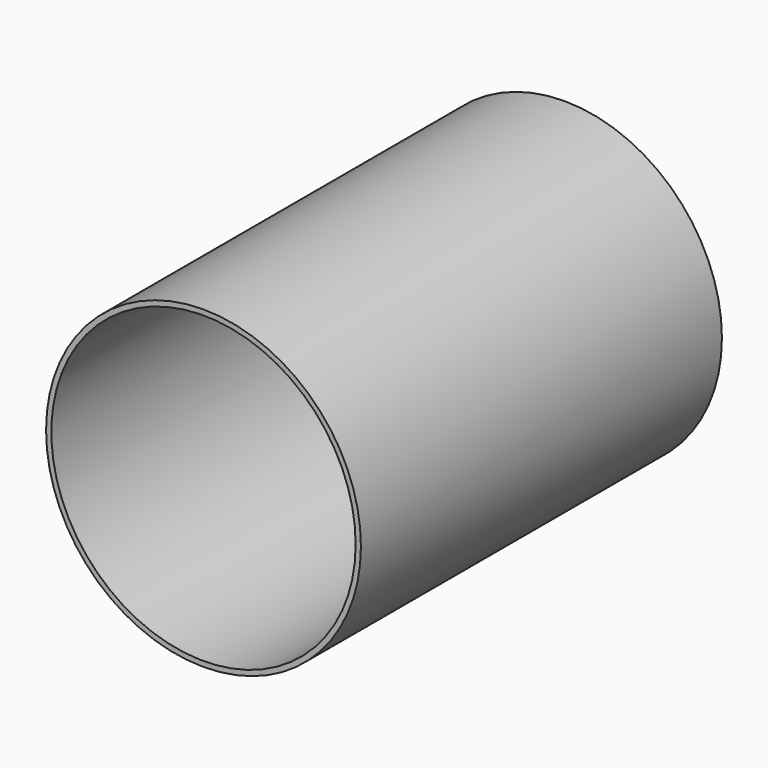
from build123d import *

# Parameters (mm, degrees)
F0_R        = 75
F0_R_2      = 72.5
F1_DEPTH    = 140
F1_FACE_R   = 75
F1_FACE_R_2 = 72.5
F2_DEPTH    = 75


with BuildPart() as f1:
    # F0 (on Front) → F1 (new body)
    with BuildSketch(Plane.XZ):
        Circle(F0_R)
        Circle(F0_R_2, mode=Mode.SUBTRACT)
    extrude(amount=F1_DEPTH)

    # F1_face (on face) → F2 (join)
    with BuildSketch(Plane(origin=(0, 0, 0), x_dir=(1, 0, 0), z_dir=(0, 1, 0))):
        Circle(F1_FACE_R)
        Circle(F1_FACE_R_2, mode=Mode.SUBTRACT)
    extrude(amount=F2_DEPTH)


solid = f1.part
